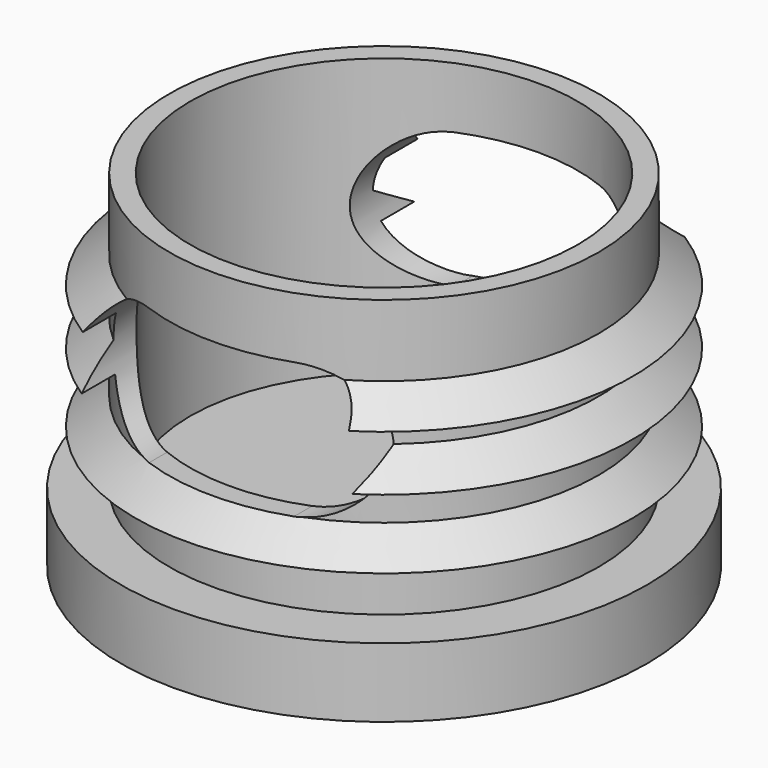
from build123d import *

# Parameters (mm, degrees)
F0_R     = 19
F0_R_2   = 15.5
F0_R_3   = 14
F1_DEPTH = 5
F2_DEPTH = 25
F6_DEPTH = 25


with BuildPart() as f1:
    # F0 (on Top) → F1 (new body)
    with BuildSketch(Plane.XY):
        Circle(F0_R)
        Circle(F0_R_2, mode=Mode.SUBTRACT)
        Circle(F0_R_2)
        Circle(F0_R_3, mode=Mode.SUBTRACT)
        Circle(F0_R_3)
    extrude(amount=F1_DEPTH)


with BuildPart() as f2:
    # F0 (on Top) → F2 (new body)
    with BuildSketch(Plane.XY):
        Circle(F0_R_2)
        Circle(F0_R_3, mode=Mode.SUBTRACT)
    extrude(amount=F2_DEPTH)

    # F3 (on Front) → F4 (revolve)
    with BuildSketch(Plane.XZ):
        Polygon((17.9371413716, 13.8867036179), (15.4371413716, 15.8867036179), (15.4371413716, 13.8867036179), align=None)
        Polygon((17.9371413716, 17.8867037556), (15.4371413716, 19.8867037556), (15.4371413716, 17.8867037556), align=None)
        Polygon((17.9371413716, 8.8867037271), (15.4371413716, 10.8867037271), (15.4371413716, 8.8867037271), align=None)
    revolve(axis=Axis((0, 0, 18.7137275934), (0, 0, 1)))


with BuildPart() as f6:
    # F5 (on Front) → F6 (new body, symmetric)
    with BuildSketch(Plane.XZ):
        with BuildLine():
            ThreePointArc((-5.2757132798, 10.8114516745), (-1.8144269488, 12.2451634161), (-0.3807152072, 15.7064497471))
            ThreePointArc((-0.3807152072, 15.7064497471), (-1.8144269488, 19.1677360781), (-5.2757132798, 20.6014478197))
            ThreePointArc((-5.2757132798, 20.6014478197), (-10.1707113524, 15.7064497471), (-5.2757132798, 10.8114516745))
        make_face()
        with BuildLine():
            ThreePointArc((10.1039001336, 15.7064497471), (8.670188392, 19.1677360781), (5.208902061, 20.6014478197))
            ThreePointArc((5.208902061, 20.6014478197), (0.3139039884, 15.7064497471), (5.208902061, 10.8114516745))
            ThreePointArc((5.208902061, 10.8114516745), (8.670188392, 12.2451634161), (10.1039001336, 15.7064497471))
        make_face()
        with BuildLine():
            ThreePointArc((-5.2757132798, 20.6014478197), (-1.8144269488, 19.1677360781), (-0.3807152072, 15.7064497471))
            ThreePointArc((-0.3807152072, 15.7064497471), (-1.8144269488, 12.2451634161), (-5.2757132798, 10.8114516745))
            Line((-5.2757132798, 10.8114516745), (5.208902061, 10.8114516745))
            ThreePointArc((5.208902061, 10.8114516745), (0.3139039884, 15.7064497471), (5.208902061, 20.6014478197))
            Line((5.208902061, 20.6014478197), (-5.2757132798, 20.6014478197))
        make_face()
    extrude(amount=F6_DEPTH, both=True)


with BuildPart() as f2_1:
    add(f2.part)

    # F7: cut F6
    add(f6.part, mode=Mode.SUBTRACT)


solid = Compound([f1.part, f2_1.part])
